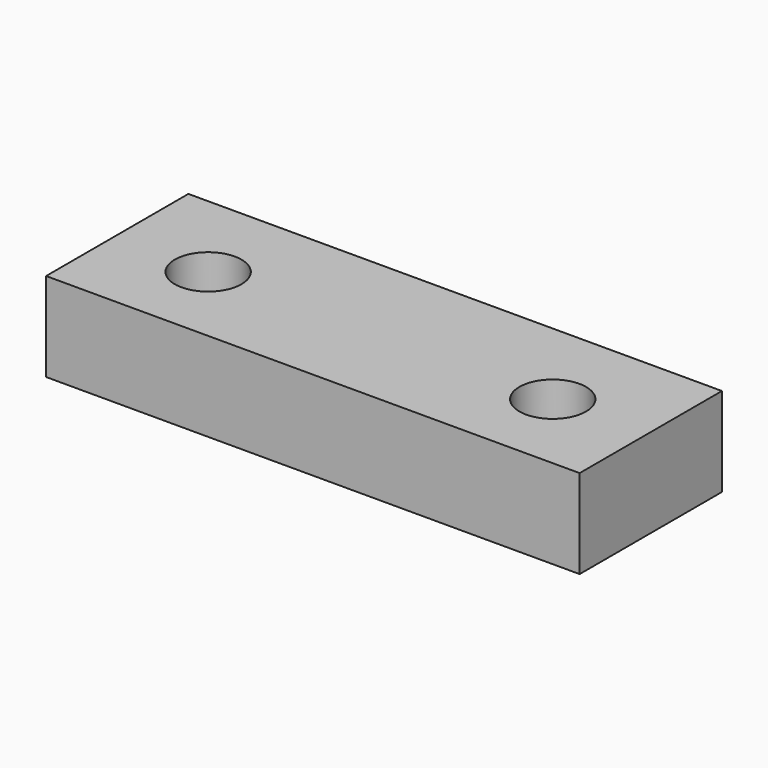
from build123d import *

# Parameters (mm, degrees)
F0_R     = 6.35
F1_DEPTH = 25.4
F2_R     = 9.525
F3_DEPTH = 19.05


with BuildPart() as f1:
    # F0 (on Top) → F1 (new body)
    with BuildSketch(Plane.XY):
        Polygon((0, -25.4), (76.2, -25.4), (76.2, 25.4), (-76.2, 25.4), (-76.2, -25.4), align=None)
        with Locations((-49.2125, -1.27)):
            Circle(F0_R, mode=Mode.SUBTRACT)
        with BuildLine():
            ThreePointArc((55.5625, -1.27), (49.2125, -7.62), (42.8625, -1.27))
            ThreePointArc((42.8625, -1.27), (49.2125, 5.08), (55.5625, -1.27))
        make_face(mode=Mode.SUBTRACT)
    extrude(amount=-F1_DEPTH)

    # F2 (on face) → F3 (cut)
    with BuildSketch(Plane.XY):
        with Locations((-49.2125, -1.27)):
            Circle(F2_R)
        with Locations((49.2125, -1.27)):
            Circle(F2_R)
    extrude(amount=-F3_DEPTH, mode=Mode.SUBTRACT)


solid = f1.part
